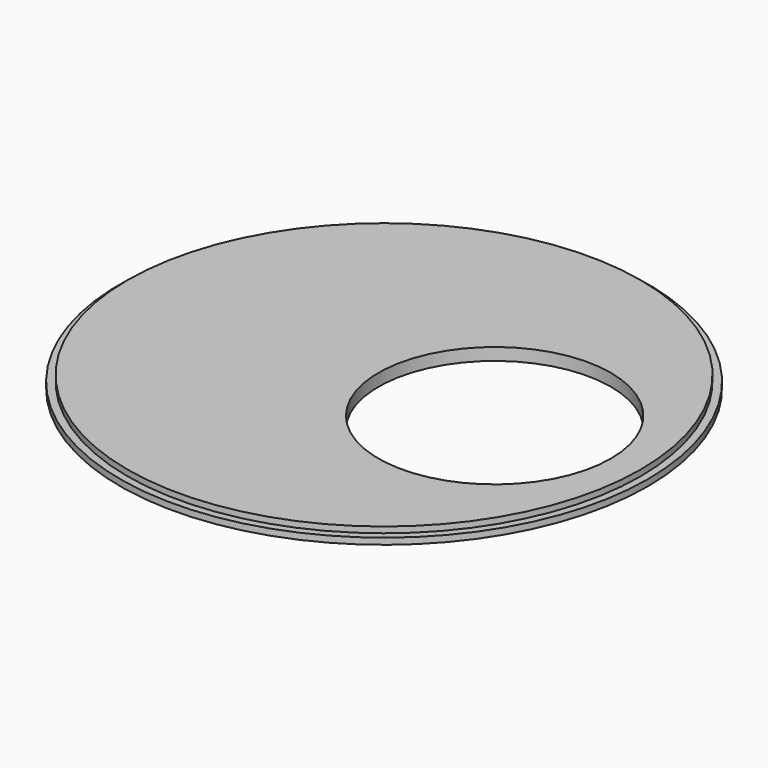
from build123d import *

# Parameters (mm, degrees)
F0_R     = 71
F1_DEPTH = 1.7
F2_R     = 69
F3_DEPTH = 1.6
F4_R     = 31.25
F5_DEPTH = 25


with BuildPart() as f1:
    # F0 (on Top) → F1 (new body)
    with BuildSketch(Plane.XY):
        Circle(F0_R)
    extrude(amount=F1_DEPTH)

    # F2 (on face) → F3 (join)
    with BuildSketch(Plane.XY.offset(1.7)):
        Circle(F2_R)
    extrude(amount=F3_DEPTH)

    # F4 (on face) → F5 (cut)
    with BuildSketch(Plane.XY.offset(3.3)):
        with Locations((29.75, 0)):
            Circle(F4_R)
    extrude(amount=-F5_DEPTH, mode=Mode.SUBTRACT)


solid = f1.part
